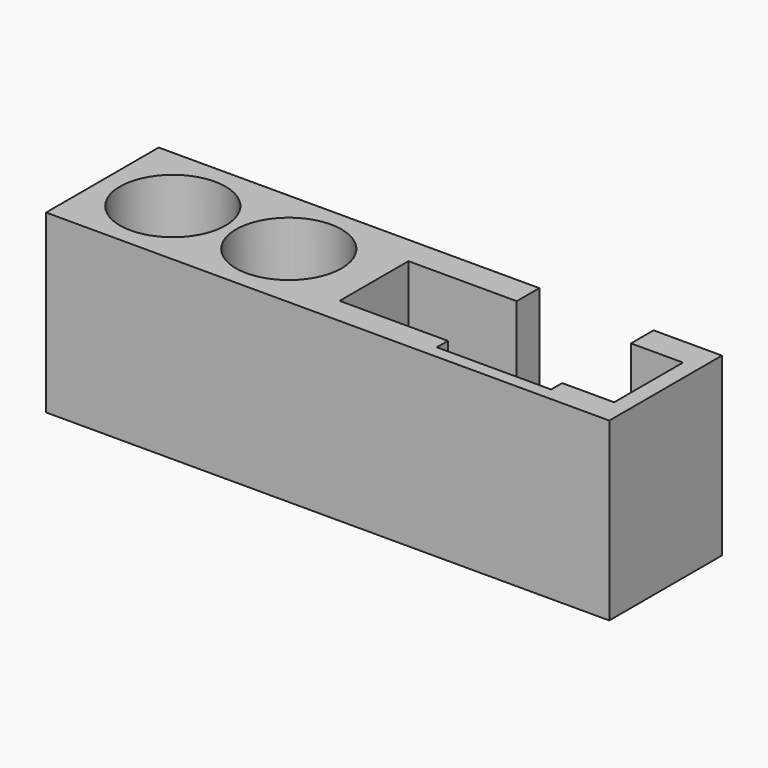
from build123d import *

# Parameters (mm, degrees)
F0_W     = 101.6
F0_H     = 31.75
F1_DEPTH = 25.4
F2_R     = 9.525
F3_DEPTH = 29.90715
F4_R     = 1.6344312683
F4_R_2   = 1.5875
F4_W     = 20.6119902432
F4_H     = 38.1576609752
F5_DEPTH = 25.4
F4_H_2   = 31.75
F4_H_3   = 6.4076609752
F6_DEPTH = 2.286
F7_DEPTH = 76.2
F8_DEPTH = 6.4076609752


with BuildPart() as f1:
    # F0 (on Front) → F1 (new body)
    with BuildSketch(Plane.XZ):
        with Locations((17.1766635031, -25.9351255724)):
            Rectangle(F0_W, F0_H)
    extrude(amount=F1_DEPTH)

    # F2 (on face) → F3 (cut)
    with BuildSketch(Plane.XY.offset(-10.0601255724)):
        with Locations((-20.9235325456, -12.7)):
            Circle(F2_R)
        with Locations((0, -12.7)):
            Circle(F2_R)
        Polygon((15.4989976436, -5.0975899212), (15.4989976436, -20.6119939685), (65.0289976436, -20.6119939685), (65.0289976436, -5.0975899212), (40.2639976436, -5.0975899212), align=None)
    extrude(amount=-F3_DEPTH, mode=Mode.SUBTRACT)

    # F4 (on face) → F5 (cut)
    with BuildSketch(Plane.XZ.offset(25.4)):
        with Locations((-28.5433364969, -36.7301255724)):
            Circle(F4_R)
        with Locations((62.8966635031, -36.7301255724)):
            Circle(F4_R_2)
        with Locations((45.3453306109, -29.13895606)):
            Rectangle(F4_W, F4_H)
    extrude(amount=-F5_DEPTH, mode=Mode.SUBTRACT)

    # F4 (on face) → F6 (join)
    with BuildSketch(Plane.XZ.offset(25.4)):
        with Locations((-28.5433364969, -36.7301255724)):
            Circle(F4_R)
        with Locations((62.8966635031, -36.7301255724)):
            Circle(F4_R_2)
        with Locations((45.3453306109, -25.9351255724)):
            Rectangle(F4_W, F4_H_2)
        with Locations((45.3453306109, -45.01395606)):
            Rectangle(F4_W, F4_H_3)
    extrude(amount=-F6_DEPTH)

    # F2 (on face) → F7 (cut)
    with BuildSketch(Plane.XY.offset(-10.0601255724)):
        Polygon((15.4989976436, -5.0975899212), (15.4989976436, -20.6119939685), (65.0289976436, -20.6119939685), (65.0289976436, -5.0975899212), (40.2639976436, -5.0975899212), align=None)
    extrude(amount=-F7_DEPTH, mode=Mode.SUBTRACT)

    # F8 (cut, through all): a face of the model
    f8_faces = [f1.faces().sort_by_distance(p)[0] for p in [
        (45.3453306109, -24.257, -48.2177865475),
    ]]
    extrude(f8_faces, amount=-F8_DEPTH, mode=Mode.SUBTRACT)


solid = f1.part
